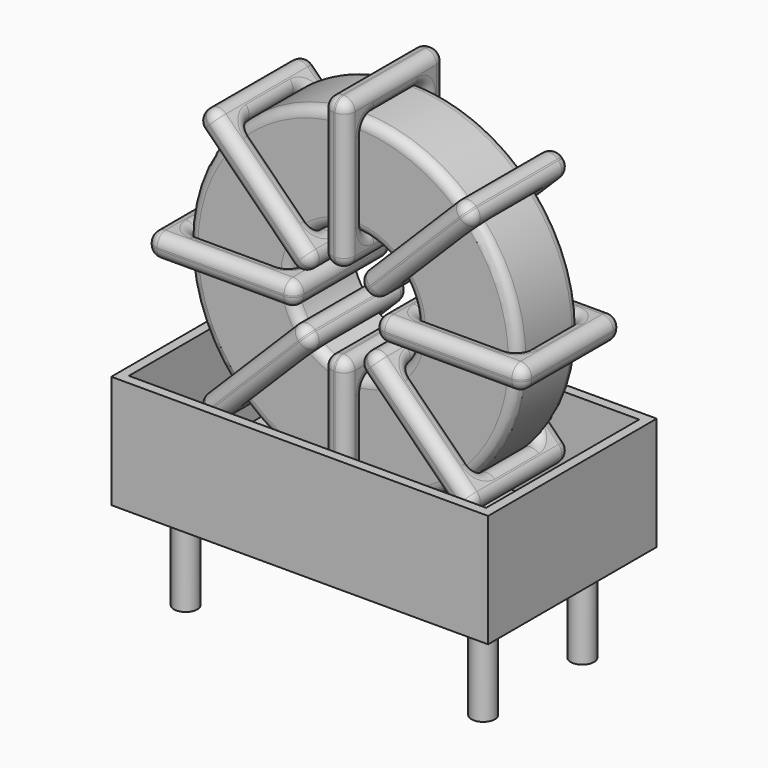
from build123d import *

# Parameters (mm, degrees)
SKETCH001_R   = 0.6
PAD001_DEPTH  = 5
SKETCH_R      = 8.452
SKETCH_R_2    = 3.217333
PAD_DEPTH     = 1.975
FILLET_R      = 0.5
SKETCH003_W   = 7.634667
SKETCH003_H   = 6.35
SKETCH003_W_2 = 5.234667
SKETCH003_H_2 = 3.95
PAD002_DEPTH  = 0.6
FILLET001_R   = 0.564
SKETCH004_W   = 7.634667
SKETCH004_H   = 6.35
SKETCH004_W_2 = 5.234667
SKETCH004_H_2 = 3.95
PAD003_DEPTH  = 0.6
FILLET002_R   = 0.564
SKETCH005_W   = 7.634667
SKETCH005_H   = 6.35
SKETCH005_W_2 = 5.234667
SKETCH005_H_2 = 3.95
PAD004_DEPTH  = 0.6
FILLET003_R   = 0.564
SKETCH006_W   = 7.634667
SKETCH006_H   = 6.35
SKETCH006_W_2 = 5.234667
SKETCH006_H_2 = 3.95
PAD005_DEPTH  = 0.6
FILLET004_R   = 0.564
SKETCH007_W   = 19.304
SKETCH007_H   = 10.795
PAD006_DEPTH  = 0.5
SKETCH008_W   = 19.304
SKETCH008_H   = 10.795
SKETCH008_W_2 = 18.304
SKETCH008_H_2 = 9.795
PAD007_DEPTH  = 5.7912


with BuildPart() as pad001:
    # Sketch001 → Pad001 (new body)
    with BuildSketch(Plane.XY.offset(0.75)):
        Circle(SKETCH001_R)
        with Locations((15.24, -6.35)):
            Circle(SKETCH001_R)
        with Locations((0, -6.35)):
            Circle(SKETCH001_R)
        with Locations((15.24, 0)):
            Circle(SKETCH001_R)
    extrude(amount=-PAD001_DEPTH)


with BuildPart() as fillet_body:
    # Sketch → Pad (new body, symmetric)
    with BuildSketch(Plane(origin=(7.62, -3.175, 0), x_dir=(1, 0, 0), z_dir=(0, -1, 0))):
        with Locations((0, 11.352)):
            Circle(SKETCH_R)
        with Locations((0, 11.352)):
            Circle(SKETCH_R_2, mode=Mode.SUBTRACT)
    extrude(amount=PAD_DEPTH, both=True)

    # Fillet
    fillet_edges = [fillet_body.edges().sort_by_distance(p)[0] for p in [
        (4.402667, -5.15, 11.352),
        (-0.832, -5.15, 11.352),
        (-0.832, -1.2, 11.352),
    ]]
    fillet(fillet_edges, radius=FILLET_R)


with BuildPart() as fillet001:
    # Sketch003 → Pad002 (new body, symmetric)
    with BuildSketch(Plane(origin=(7.62, 0, 11.352), x_dir=(1, 0, 0), z_dir=(0, 0, -1))):
        with Locations((-5.834666, 3.175)):
            Rectangle(SKETCH003_W, SKETCH003_H)
        with Locations((-5.834666, 3.175)):
            Rectangle(SKETCH003_W_2, SKETCH003_H_2, mode=Mode.SUBTRACT)
        with Locations((5.834666, 3.175)):
            Rectangle(SKETCH003_W, SKETCH003_H)
        with Locations((5.834666, 3.175)):
            Rectangle(SKETCH003_W_2, SKETCH003_H_2, mode=Mode.SUBTRACT)
    extrude(amount=PAD002_DEPTH, both=True)

    # Fillet001
    fillet001_edges = [fillet001.edges().sort_by_distance(p)[0] for p in [
        (4.402667, -5.15, 11.352),
        (4.402667, -1.2, 11.352),
        (4.402667, -3.175, 11.952),
        (4.402667, -3.175, 10.752),
        (-2.032, -6.35, 11.352),
        (5.602667, -6.35, 11.352),
        (1.785333, -6.35, 11.952),
        (1.785333, -6.35, 10.752),
        (5.602667, 0, 11.352),
        (5.602667, -3.175, 11.952),
        (5.602667, -3.175, 10.752),
        (10.837333, -5.15, 11.352),
        (16.072, -5.15, 11.352),
        (13.454667, -5.15, 11.952),
        (13.454667, -5.15, 10.752),
        (16.072, -1.2, 11.352),
        (16.072, -3.175, 11.952),
        (16.072, -3.175, 10.752),
        (9.637333, -6.35, 11.352),
        (17.272, -6.35, 11.352),
        (13.454667, -6.35, 11.952),
        (13.454667, -6.35, 10.752),
        (17.272, 0, 11.352),
        (17.272, -3.175, 11.952),
        (17.272, -3.175, 10.752),
        (-0.832, -5.15, 11.352),
        (1.785333, -5.15, 11.952),
        (1.785333, -5.15, 10.752),
        (10.837333, -1.2, 11.352),
        (10.837333, -3.175, 11.952),
        (10.837333, -3.175, 10.752),
        (13.454667, -1.2, 11.952),
        (13.454667, -1.2, 10.752),
        (9.637333, 0, 11.352),
        (13.454667, 0, 11.952),
        (13.454667, 0, 10.752),
        (9.637333, -3.175, 11.952),
        (9.637333, -3.175, 10.752),
        (-2.032, 0, 11.352),
        (1.785333, 0, 11.952),
        (1.785333, 0, 10.752),
        (-2.032, -3.175, 11.952),
        (-2.032, -3.175, 10.752),
        (-0.832, -1.2, 11.352),
        (-0.832, -3.175, 11.952),
        (-0.832, -3.175, 10.752),
        (1.785333, -1.2, 11.952),
        (1.785333, -1.2, 10.752),
    ]]
    fillet(fillet001_edges, radius=FILLET001_R)


with BuildPart() as fillet002:
    # Sketch004 → Pad003 (new body, symmetric)
    with BuildSketch(Plane(origin=(7.62, 0, 11.352), x_dir=(0.707108, 0, 0.707106), z_dir=(0.707106, 0, -0.707108))):
        with Locations((-5.834666, 3.175)):
            Rectangle(SKETCH004_W, SKETCH004_H)
        with Locations((-5.834666, 3.175)):
            Rectangle(SKETCH004_W_2, SKETCH004_H_2, mode=Mode.SUBTRACT)
        with Locations((5.834666, 3.175)):
            Rectangle(SKETCH004_W, SKETCH004_H)
        with Locations((5.834666, 3.175)):
            Rectangle(SKETCH004_W_2, SKETCH004_H_2, mode=Mode.SUBTRACT)
    extrude(amount=PAD003_DEPTH, both=True)

    # Fillet002
    fillet002_edges = [fillet002.edges().sort_by_distance(p)[0] for p in [
        (5.344999, -5.15, 9.077004),
        (5.344999, -1.2, 9.077004),
        (4.920736, -3.175, 9.501269),
        (5.769263, -3.175, 8.65274),
        (0.794997, -6.35, 4.527013),
        (6.193528, -6.35, 9.925532),
        (3.069999, -6.35, 7.650537),
        (3.918526, -6.35, 6.802008),
        (6.193528, 0, 9.925532),
        (5.769265, -3.175, 10.349796),
        (6.617792, -3.175, 9.501267),
        (9.895001, -5.15, 13.626996),
        (13.596473, -5.15, 17.32846),
        (11.321474, -5.15, 15.901992),
        (12.170001, -5.15, 15.053463),
        (13.596473, -1.2, 17.32846),
        (13.17221, -3.175, 17.752724),
        (14.020737, -3.175, 16.904195),
        (9.046472, -6.35, 12.778468),
        (14.445003, -6.35, 18.176987),
        (11.321474, -6.35, 15.901992),
        (12.170001, -6.35, 15.053463),
        (14.445003, 0, 18.176987),
        (14.020739, -3.175, 18.601251),
        (14.869266, -3.175, 17.752722),
        (1.643527, -5.15, 5.37554),
        (3.069999, -5.15, 7.650537),
        (3.918526, -5.15, 6.802008),
        (9.895001, -1.2, 13.626996),
        (9.470737, -3.175, 14.05126),
        (10.319264, -3.175, 13.202731),
        (11.321474, -1.2, 15.901992),
        (12.170001, -1.2, 15.053463),
        (9.046472, 0, 12.778468),
        (11.321474, 0, 15.901992),
        (12.170001, 0, 15.053463),
        (8.622208, -3.175, 13.202733),
        (9.470735, -3.175, 12.354204),
        (0.794997, 0, 4.527013),
        (3.069999, 0, 7.650537),
        (3.918526, 0, 6.802008),
        (0.370734, -3.175, 4.951278),
        (1.219261, -3.175, 4.102749),
        (1.643527, -1.2, 5.37554),
        (1.219263, -3.175, 5.799805),
        (2.06779, -3.175, 4.951276),
        (3.069999, -1.2, 7.650537),
        (3.918526, -1.2, 6.802008),
    ]]
    fillet(fillet002_edges, radius=FILLET002_R)


with BuildPart() as fillet003:
    # Sketch005 → Pad004 (new body, symmetric)
    with BuildSketch(Plane(origin=(7.62, 0, 11.352), x_dir=(0.707108, 0, -0.707106), z_dir=(-0.707106, 0, -0.707108))):
        with Locations((-5.834666, 3.175)):
            Rectangle(SKETCH005_W, SKETCH005_H)
        with Locations((-5.834666, 3.175)):
            Rectangle(SKETCH005_W_2, SKETCH005_H_2, mode=Mode.SUBTRACT)
        with Locations((5.834666, 3.175)):
            Rectangle(SKETCH005_W, SKETCH005_H)
        with Locations((5.834666, 3.175)):
            Rectangle(SKETCH005_W_2, SKETCH005_H_2, mode=Mode.SUBTRACT)
    extrude(amount=PAD004_DEPTH, both=True)

    # Fillet003
    fillet003_edges = [fillet003.edges().sort_by_distance(p)[0] for p in [
        (5.344999, -5.15, 13.626996),
        (5.344999, -1.2, 13.626996),
        (5.769263, -3.175, 14.05126),
        (4.920736, -3.175, 13.202731),
        (0.794997, -6.35, 18.176987),
        (0.794997, 0, 18.176987),
        (1.219261, -3.175, 18.601251),
        (0.370734, -3.175, 17.752722),
        (6.193528, -6.35, 12.778468),
        (3.918526, 0, 15.901992),
        (3.069999, 0, 15.053463),
        (9.895001, -5.15, 9.077004),
        (13.596473, -5.15, 5.37554),
        (12.170001, -5.15, 7.650537),
        (11.321474, -5.15, 6.802008),
        (13.596473, -1.2, 5.37554),
        (14.020737, -3.175, 5.799805),
        (13.17221, -3.175, 4.951276),
        (9.046472, -6.35, 9.925532),
        (14.445003, -6.35, 4.527013),
        (12.170001, -6.35, 7.650537),
        (11.321474, -6.35, 6.802008),
        (14.445003, 0, 4.527013),
        (14.869266, -3.175, 4.951278),
        (14.020739, -3.175, 4.102749),
        (1.643527, -5.15, 17.32846),
        (3.918526, -5.15, 15.901992),
        (3.069999, -5.15, 15.053463),
        (9.895001, -1.2, 9.077004),
        (10.319264, -3.175, 9.501269),
        (9.470737, -3.175, 8.65274),
        (12.170001, -1.2, 7.650537),
        (11.321474, -1.2, 6.802008),
        (9.046472, 0, 9.925532),
        (12.170001, 0, 7.650537),
        (11.321474, 0, 6.802008),
        (9.470735, -3.175, 10.349796),
        (8.622208, -3.175, 9.501267),
        (6.193528, 0, 12.778468),
        (6.617792, -3.175, 13.202733),
        (5.769265, -3.175, 12.354204),
        (3.918526, -6.35, 15.901992),
        (3.069999, -6.35, 15.053463),
        (1.643527, -1.2, 17.32846),
        (2.06779, -3.175, 17.752724),
        (1.219263, -3.175, 16.904195),
        (3.918526, -1.2, 15.901992),
        (3.069999, -1.2, 15.053463),
    ]]
    fillet(fillet003_edges, radius=FILLET003_R)


with BuildPart() as fillet004:
    # Sketch006 → Pad005 (new body, symmetric)
    with BuildSketch(Plane(origin=(7.62, 0, 11.352), x_dir=(0, 0, 1), z_dir=(1, 0, 0))):
        with Locations((-5.834666, 3.175)):
            Rectangle(SKETCH006_W, SKETCH006_H)
        with Locations((-5.834666, 3.175)):
            Rectangle(SKETCH006_W_2, SKETCH006_H_2, mode=Mode.SUBTRACT)
        with Locations((5.834666, 3.175)):
            Rectangle(SKETCH006_W, SKETCH006_H)
        with Locations((5.834666, 3.175)):
            Rectangle(SKETCH006_W_2, SKETCH006_H_2, mode=Mode.SUBTRACT)
    extrude(amount=PAD005_DEPTH, both=True)

    # Fillet004
    fillet004_edges = [fillet004.edges().sort_by_distance(p)[0] for p in [
        (7.62, -5.15, 8.134667),
        (7.62, -1.2, 8.134667),
        (7.02, -3.175, 8.134667),
        (8.22, -3.175, 8.134667),
        (7.62, -6.35, 1.7),
        (7.62, -6.35, 9.334667),
        (7.02, -6.35, 5.517333),
        (8.22, -6.35, 5.517333),
        (7.62, 0, 9.334667),
        (7.02, -3.175, 9.334667),
        (8.22, -3.175, 9.334667),
        (7.62, -5.15, 14.569333),
        (7.62, -5.15, 19.804),
        (7.02, -5.15, 17.186667),
        (8.22, -5.15, 17.186667),
        (7.62, -1.2, 19.804),
        (7.02, -3.175, 19.804),
        (8.22, -3.175, 19.804),
        (7.62, -6.35, 13.369333),
        (7.62, -6.35, 21.004),
        (7.02, -6.35, 17.186667),
        (8.22, -6.35, 17.186667),
        (7.62, 0, 21.004),
        (7.02, -3.175, 21.004),
        (8.22, -3.175, 21.004),
        (7.62, -5.15, 2.9),
        (7.02, -5.15, 5.517333),
        (8.22, -5.15, 5.517333),
        (7.62, -1.2, 14.569333),
        (7.02, -3.175, 14.569333),
        (8.22, -3.175, 14.569333),
        (7.02, -1.2, 17.186667),
        (8.22, -1.2, 17.186667),
        (7.62, 0, 13.369333),
        (7.02, 0, 17.186667),
        (8.22, 0, 17.186667),
        (7.02, -3.175, 13.369333),
        (8.22, -3.175, 13.369333),
        (7.62, 0, 1.7),
        (7.02, 0, 5.517333),
        (8.22, 0, 5.517333),
        (7.02, -3.175, 1.7),
        (8.22, -3.175, 1.7),
        (7.62, -1.2, 2.9),
        (7.02, -3.175, 2.9),
        (8.22, -3.175, 2.9),
        (7.02, -1.2, 5.517333),
        (8.22, -1.2, 5.517333),
    ]]
    fillet(fillet004_edges, radius=FILLET004_R)


with BuildPart() as pad006:
    # Sketch007 → Pad006 (new body)
    with BuildSketch(Plane(origin=(7.62, 0, 0.5), x_dir=(1, 0, 0), z_dir=(0, 0, 1))):
        with Locations((0, -3.175)):
            Rectangle(SKETCH007_W, SKETCH007_H)
    extrude(amount=PAD006_DEPTH)


with BuildPart() as pad007:
    # Sketch008 → Pad007 (new body)
    with BuildSketch(Plane(origin=(7.62, 0, 0.5), x_dir=(1, 0, 0), z_dir=(0, 0, 1))):
        with Locations((0, -3.175)):
            Rectangle(SKETCH008_W, SKETCH008_H)
        with Locations((0, -3.175)):
            Rectangle(SKETCH008_W_2, SKETCH008_H_2, mode=Mode.SUBTRACT)
    extrude(amount=PAD007_DEPTH)


solid = Compound([pad001.part, fillet_body.part, fillet001.part, fillet002.part, fillet003.part, fillet004.part, pad006.part, pad007.part])
